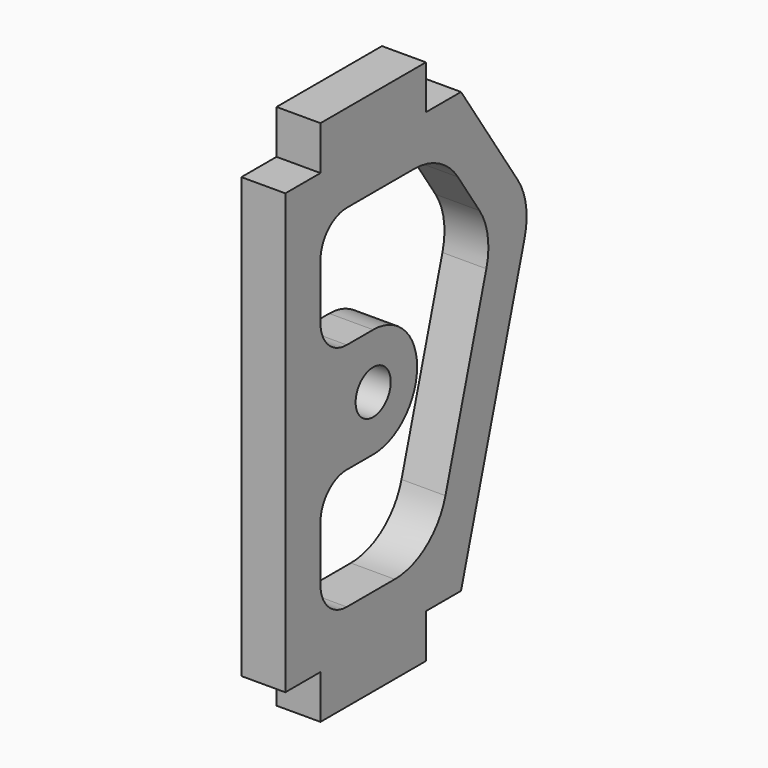
from build123d import *

# Parameters (mm, degrees)
F1_DEPTH = 2
F3_DEPTH = 2
F4_R     = 1
F5_DEPTH = 2.001
F7_DEPTH = 2.001


with BuildPart() as f1:
    # F0 (on Right) → F1 (new body)
    with BuildSketch(Plane.YZ):
        Polygon((-3, 0), (-3, -2), (3, -2), (3, 0), (5, 0), (5, 20), (3, 20), (3, 22), (-3, 22), (-3, 20), (-5, 20), (-5, 0), align=None)
    extrude(amount=F1_DEPTH)

    # F2 (on face) → F3 (join, through all)
    with BuildSketch(Plane.YZ.offset(2)):
        with BuildLine():
            Line((3, 0), (5, 0))
            Line((5, 0), (8.618873, 12.666057))
            ThreePointArc((8.618873, 12.666057), (8.698405, 13.952921), (8.230453, 15.154321))
            Line((8.230453, 15.154321), (5, 20))
            Line((5, 20), (3, 20))
            Line((3, 20), (3, 0))
        make_face()
    extrude(amount=-F3_DEPTH)

    # F4 (on face) → F5 (cut, through all)
    with BuildSketch(Plane.YZ.offset(2)):
        with Locations((0, 10)):
            Circle(F4_R)
    extrude(amount=-F5_DEPTH, mode=Mode.SUBTRACT)

    # F6 (on face) → F7 (cut, through all)
    with BuildSketch(Plane.YZ.offset(2)):
        with BuildLine():
            ThreePointArc((1.228493, 2), (3.035079, 2.604954), (4.113065, 4.175837))
            Line((4.113065, 4.175837), (6.441741, 12.326204))
            ThreePointArc((6.441741, 12.326204), (6.521273, 13.613068), (6.05332, 14.814468))
            Line((6.05332, 14.814468), (4.820232, 16.664101))
            ThreePointArc((4.820232, 16.664101), (3.739655, 17.645024), (2.324081, 18))
            Line((2.324081, 18), (-1.5, 18))
            ThreePointArc((-1.5, 18), (-2.56066, 17.56066), (-3, 16.5))
            Line((-3, 16.5), (-3, 14))
            ThreePointArc((-3, 14), (-2.56066, 12.93934), (-1.5, 12.5))
            Line((-1.5, 12.5), (0, 12.5))
            ThreePointArc((0, 12.5), (2.5, 10), (0, 7.5))
            Line((0, 7.5), (-1.5, 7.5))
            ThreePointArc((-1.5, 7.5), (-2.56066, 7.06066), (-3, 6))
            Line((-3, 6), (-3, 3.5))
            ThreePointArc((-3, 3.5), (-2.56066, 2.43934), (-1.5, 2))
            Line((-1.5, 2), (1.228493, 2))
        make_face()
    extrude(amount=-F7_DEPTH, mode=Mode.SUBTRACT)


solid = f1.part
